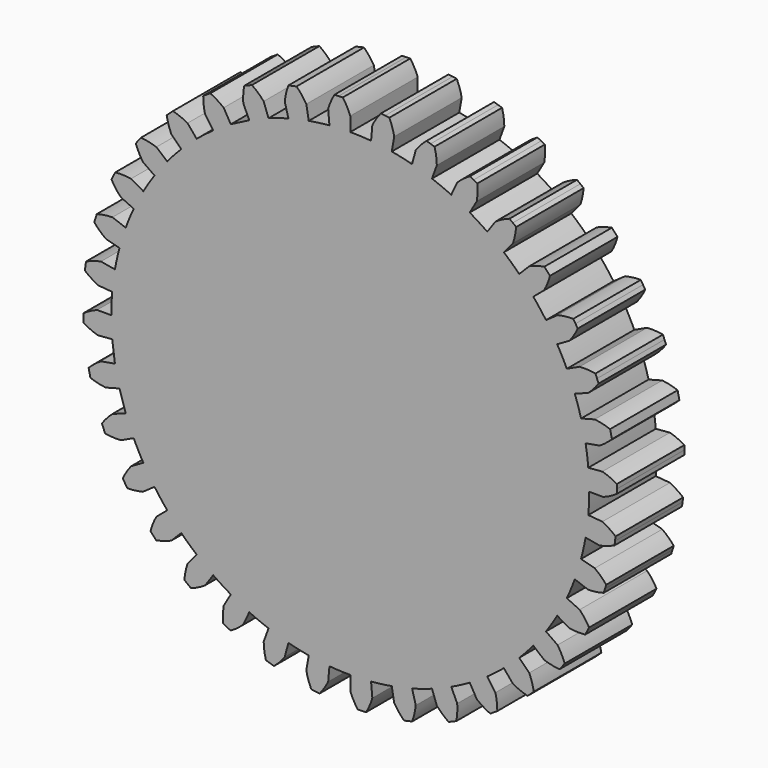
from build123d import *

# Parameters (mm, degrees)
F2_DEPTH = 6.35


with BuildPart() as f2:
    # F0 (on Front) → F2 (new body)
    with BuildSketch(Plane.XZ):
        with BuildLine():
            Line((1.660317, 18.977509), (1.567339, 17.914768))
            ThreePointArc((1.567339, 17.914768), (0.784416, 17.966084), (0, 17.9832))
            Line((0, 17.9832), (0, 19.05))
            ThreePointArc((0, 19.05), (-0.247841, 19.590705), (-0.5612, 20.096266))
            Line((-0.5612, 20.096266), (-0.87682, 20.082485))
            Line((-0.87682, 20.082485), (-1.19244, 20.068705))
            ThreePointArc((-1.19244, 20.068705), (-1.460545, 19.537757), (-1.660317, 18.977509))
            Line((-1.660317, 18.977509), (-1.567339, 17.914768))
            ThreePointArc((-1.567339, 17.914768), (-2.347279, 17.829351), (-3.12275, 17.709995))
            Line((-3.12275, 17.709995), (-3.307998, 18.760588))
            ThreePointArc((-3.307998, 18.760588), (-3.645965, 19.250041), (-4.042354, 19.693507))
            Line((-4.042354, 19.693507), (-4.350786, 19.625129))
            Line((-4.350786, 19.625129), (-4.659218, 19.556751))
            ThreePointArc((-4.659218, 19.556751), (-4.831052, 18.987313), (-4.930503, 18.400887))
            Line((-4.930503, 18.400887), (-4.654395, 17.370437))
            ThreePointArc((-4.654395, 17.370437), (-5.407653, 17.150883), (-6.150617, 16.89868))
            Line((-6.150617, 16.89868), (-6.515484, 17.901144))
            ThreePointArc((-6.515484, 17.901144), (-6.933309, 18.324474), (-7.400683, 18.692371))
            Line((-7.400683, 18.692371), (-7.692556, 18.571473))
            Line((-7.692556, 18.571473), (-7.984429, 18.450576))
            ThreePointArc((-7.984429, 18.450576), (-8.05477, 17.85995), (-8.050878, 17.265163))
            Line((-8.050878, 17.265163), (-7.600029, 16.298314))
            Line((-7.600029, 16.298314), (-8.9916, 15.573908))
            Line((-8.9916, 15.573908), (-9.525, 16.497784))
            ThreePointArc((-9.525, 16.497784), (-10.009988, 16.842128), (-10.534147, 17.123276))
            Line((-10.534147, 17.123276), (-10.800591, 16.953532))
            Line((-10.800591, 16.953532), (-11.067036, 16.783788))
            ThreePointArc((-11.067036, 16.783788), (-11.033747, 16.189921), (-10.926631, 15.604846))
            Line((-10.926631, 15.604846), (-10.31474, 14.730975))
            ThreePointArc((-10.31474, 14.730975), (-10.947479, 14.267032), (-11.559378, 13.77593))
            Line((-11.559378, 13.77593), (-12.245104, 14.593147))
            ThreePointArc((-12.245104, 14.593147), (-12.782519, 14.848042), (-13.347535, 15.0339))
            Line((-13.347535, 15.0339), (-13.580456, 14.820467))
            Line((-13.580456, 14.820467), (-13.813377, 14.607034))
            ThreePointArc((-13.813377, 14.607034), (-13.67747, 14.02797), (-13.470384, 13.470384))
            Line((-13.470384, 13.470384), (-12.716043, 12.716043))
            ThreePointArc((-12.716043, 12.716043), (-13.258606, 12.149274), (-13.77593, 11.559378))
            Line((-13.77593, 11.559378), (-14.593147, 12.245104))
            ThreePointArc((-14.593147, 12.245104), (-15.166659, 12.402805), (-15.755365, 12.487726))
            Line((-15.755365, 12.487726), (-15.947685, 12.237089))
            Line((-15.947685, 12.237089), (-16.140006, 11.986453))
            ThreePointArc((-16.140006, 11.986453), (-15.90561, 11.439786), (-15.604846, 10.926631))
            Line((-15.604846, 10.926631), (-14.730975, 10.31474))
            ThreePointArc((-14.730975, 10.31474), (-15.166877, 9.662366), (-15.573908, 8.9916))
            Line((-15.573908, 8.9916), (-16.497784, 9.525))
            ThreePointArc((-16.497784, 9.525), (-17.089968, 9.580716), (-17.684477, 9.562119))
            Line((-17.684477, 9.562119), (-17.830353, 9.281894))
            Line((-17.830353, 9.281894), (-17.976228, 9.001669))
            ThreePointArc((-17.976228, 9.001669), (-17.650466, 8.504009), (-17.265163, 8.050878))
            Line((-17.265163, 8.050878), (-16.298314, 7.600029))
            ThreePointArc((-16.298314, 7.600029), (-16.61431, 6.881873), (-16.89868, 6.150617))
            Line((-16.89868, 6.150617), (-17.901144, 6.515484))
            ThreePointArc((-17.901144, 6.515484), (-18.494007, 6.467522), (-19.076254, 6.345972))
            Line((-19.076254, 6.345972), (-19.171253, 6.044673))
            Line((-19.171253, 6.044673), (-19.266253, 5.743374))
            ThreePointArc((-19.266253, 5.743374), (-18.859022, 5.309843), (-18.400887, 4.930503))
            Line((-18.400887, 4.930503), (-17.370437, 4.654395))
            ThreePointArc((-17.370437, 4.654395), (-17.556926, 3.892277), (-17.709995, 3.12275))
            Line((-17.709995, 3.12275), (-18.760588, 3.307998))
            ThreePointArc((-18.760588, 3.307998), (-19.336115, 3.157815), (-19.88841, 2.937005))
            Line((-19.88841, 2.937005), (-19.929645, 2.623788))
            Line((-19.929645, 2.623788), (-19.970881, 2.31057))
            ThreePointArc((-19.970881, 2.31057), (-19.494555, 1.95434), (-18.977509, 1.660317))
            Line((-18.977509, 1.660317), (-17.914768, 1.567339))
            ThreePointArc((-17.914768, 1.567339), (-17.966084, 0.784416), (-17.9832, 0))
            Line((-17.9832, 0), (-19.05, 0))
            ThreePointArc((-19.05, 0), (-19.590705, -0.247841), (-20.096266, -0.5612))
            Line((-20.096266, -0.5612), (-20.082485, -0.87682))
            Line((-20.082485, -0.87682), (-20.068705, -1.19244))
            ThreePointArc((-20.068705, -1.19244), (-19.537757, -1.460545), (-18.977509, -1.660317))
            Line((-18.977509, -1.660317), (-17.914768, -1.567339))
            Line((-17.914768, -1.567339), (-17.709995, -3.12275))
            Line((-17.709995, -3.12275), (-18.760588, -3.307998))
            ThreePointArc((-18.760588, -3.307998), (-19.250041, -3.645965), (-19.693507, -4.042354))
            Line((-19.693507, -4.042354), (-19.625129, -4.350786))
            Line((-19.625129, -4.350786), (-19.556751, -4.659218))
            ThreePointArc((-19.556751, -4.659218), (-18.987313, -4.831052), (-18.400887, -4.930503))
            Line((-18.400887, -4.930503), (-17.370437, -4.654395))
            Line((-17.370437, -4.654395), (-16.89868, -6.150617))
            Line((-16.89868, -6.150617), (-17.901144, -6.515484))
            ThreePointArc((-17.901144, -6.515484), (-18.324474, -6.933309), (-18.692371, -7.400683))
            Line((-18.692371, -7.400683), (-18.571473, -7.692556))
            Line((-18.571473, -7.692556), (-18.450576, -7.984429))
            ThreePointArc((-18.450576, -7.984429), (-17.85995, -8.05477), (-17.265163, -8.050878))
            Line((-17.265163, -8.050878), (-16.298314, -7.600029))
            ThreePointArc((-16.298314, -7.600029), (-15.951293, -8.303718), (-15.573908, -8.9916))
            Line((-15.573908, -8.9916), (-16.497784, -9.525))
            ThreePointArc((-16.497784, -9.525), (-16.842128, -10.009988), (-17.123276, -10.534147))
            Line((-17.123276, -10.534147), (-16.953532, -10.800591))
            Line((-16.953532, -10.800591), (-16.783788, -11.067036))
            ThreePointArc((-16.783788, -11.067036), (-16.189921, -11.033747), (-15.604846, -10.926631))
            Line((-15.604846, -10.926631), (-14.730975, -10.31474))
            ThreePointArc((-14.730975, -10.31474), (-14.267032, -10.947479), (-13.77593, -11.559378))
            Line((-13.77593, -11.559378), (-14.593147, -12.245104))
            ThreePointArc((-14.593147, -12.245104), (-14.848042, -12.782519), (-15.0339, -13.347535))
            Line((-15.0339, -13.347535), (-14.820467, -13.580456))
            Line((-14.820467, -13.580456), (-14.607034, -13.813377))
            ThreePointArc((-14.607034, -13.813377), (-14.02797, -13.67747), (-13.470384, -13.470384))
            Line((-13.470384, -13.470384), (-12.716043, -12.716043))
            ThreePointArc((-12.716043, -12.716043), (-12.149274, -13.258606), (-11.559378, -13.77593))
            Line((-11.559378, -13.77593), (-12.245104, -14.593147))
            ThreePointArc((-12.245104, -14.593147), (-12.402805, -15.166659), (-12.487726, -15.755365))
            Line((-12.487726, -15.755365), (-12.237089, -15.947685))
            Line((-12.237089, -15.947685), (-11.986453, -16.140006))
            ThreePointArc((-11.986453, -16.140006), (-11.439786, -15.90561), (-10.926631, -15.604846))
            Line((-10.926631, -15.604846), (-10.31474, -14.730975))
            ThreePointArc((-10.31474, -14.730975), (-9.662366, -15.166877), (-8.9916, -15.573908))
            Line((-8.9916, -15.573908), (-9.525, -16.497784))
            ThreePointArc((-9.525, -16.497784), (-9.580716, -17.089968), (-9.562119, -17.684477))
            Line((-9.562119, -17.684477), (-9.281894, -17.830353))
            Line((-9.281894, -17.830353), (-9.001669, -17.976228))
            ThreePointArc((-9.001669, -17.976228), (-8.504009, -17.650466), (-8.050878, -17.265163))
            Line((-8.050878, -17.265163), (-7.600029, -16.298314))
            ThreePointArc((-7.600029, -16.298314), (-6.881873, -16.61431), (-6.150617, -16.89868))
            Line((-6.150617, -16.89868), (-6.515484, -17.901144))
            ThreePointArc((-6.515484, -17.901144), (-6.467522, -18.494007), (-6.345972, -19.076254))
            Line((-6.345972, -19.076254), (-6.044673, -19.171253))
            Line((-6.044673, -19.171253), (-5.743374, -19.266253))
            ThreePointArc((-5.743374, -19.266253), (-5.309843, -18.859022), (-4.930503, -18.400887))
            Line((-4.930503, -18.400887), (-4.654395, -17.370437))
            ThreePointArc((-4.654395, -17.370437), (-3.892277, -17.556926), (-3.12275, -17.709995))
            Line((-3.12275, -17.709995), (-3.307998, -18.760588))
            ThreePointArc((-3.307998, -18.760588), (-3.157815, -19.336115), (-2.937005, -19.88841))
            Line((-2.937005, -19.88841), (-2.623788, -19.929645))
            Line((-2.623788, -19.929645), (-2.31057, -19.970881))
            ThreePointArc((-2.31057, -19.970881), (-1.95434, -19.494555), (-1.660317, -18.977509))
            Line((-1.660317, -18.977509), (-1.567339, -17.914768))
            ThreePointArc((-1.567339, -17.914768), (-0.784416, -17.966084), (0, -17.9832))
            Line((0, -17.9832), (0, -19.05))
            ThreePointArc((0, -19.05), (0.247841, -19.590705), (0.5612, -20.096266))
            Line((0.5612, -20.096266), (0.87682, -20.082485))
            Line((0.87682, -20.082485), (1.19244, -20.068705))
            ThreePointArc((1.19244, -20.068705), (1.460545, -19.537757), (1.660317, -18.977509))
            Line((1.660317, -18.977509), (1.567339, -17.914768))
            ThreePointArc((1.567339, -17.914768), (2.347279, -17.829351), (3.12275, -17.709995))
            Line((3.12275, -17.709995), (3.307998, -18.760588))
            ThreePointArc((3.307998, -18.760588), (3.645965, -19.250041), (4.042354, -19.693507))
            Line((4.042354, -19.693507), (4.350786, -19.625129))
            Line((4.350786, -19.625129), (4.659218, -19.556751))
            ThreePointArc((4.659218, -19.556751), (4.831052, -18.987313), (4.930503, -18.400887))
            Line((4.930503, -18.400887), (4.654395, -17.370437))
            ThreePointArc((4.654395, -17.370437), (5.407653, -17.150883), (6.150617, -16.89868))
            Line((6.150617, -16.89868), (6.515484, -17.901144))
            ThreePointArc((6.515484, -17.901144), (6.933309, -18.324474), (7.400683, -18.692371))
            Line((7.400683, -18.692371), (7.692556, -18.571473))
            Line((7.692556, -18.571473), (7.984429, -18.450576))
            ThreePointArc((7.984429, -18.450576), (8.05477, -17.85995), (8.050878, -17.265163))
            Line((8.050878, -17.265163), (7.600029, -16.298314))
            ThreePointArc((7.600029, -16.298314), (8.303718, -15.951293), (8.9916, -15.573908))
            Line((8.9916, -15.573908), (9.525, -16.497784))
            ThreePointArc((9.525, -16.497784), (10.009988, -16.842128), (10.534147, -17.123276))
            Line((10.534147, -17.123276), (10.800591, -16.953532))
            Line((10.800591, -16.953532), (11.067036, -16.783788))
            ThreePointArc((11.067036, -16.783788), (11.033747, -16.189921), (10.926631, -15.604846))
            Line((10.926631, -15.604846), (10.31474, -14.730975))
            ThreePointArc((10.31474, -14.730975), (10.947479, -14.267032), (11.559378, -13.77593))
            Line((11.559378, -13.77593), (12.245104, -14.593147))
            ThreePointArc((12.245104, -14.593147), (12.782519, -14.848042), (13.347535, -15.0339))
            Line((13.347535, -15.0339), (13.580456, -14.820467))
            Line((13.580456, -14.820467), (13.813377, -14.607034))
            ThreePointArc((13.813377, -14.607034), (13.67747, -14.02797), (13.470384, -13.470384))
            Line((13.470384, -13.470384), (12.716043, -12.716043))
            ThreePointArc((12.716043, -12.716043), (13.258606, -12.149274), (13.77593, -11.559378))
            Line((13.77593, -11.559378), (14.593147, -12.245104))
            ThreePointArc((14.593147, -12.245104), (15.166659, -12.402805), (15.755365, -12.487726))
            Line((15.755365, -12.487726), (15.947685, -12.237089))
            Line((15.947685, -12.237089), (16.140006, -11.986453))
            ThreePointArc((16.140006, -11.986453), (15.90561, -11.439786), (15.604846, -10.926631))
            Line((15.604846, -10.926631), (14.730975, -10.31474))
            ThreePointArc((14.730975, -10.31474), (15.166877, -9.662366), (15.573908, -8.9916))
            Line((15.573908, -8.9916), (16.497784, -9.525))
            ThreePointArc((16.497784, -9.525), (17.089968, -9.580716), (17.684477, -9.562119))
            Line((17.684477, -9.562119), (17.830353, -9.281894))
            Line((17.830353, -9.281894), (17.976228, -9.001669))
            ThreePointArc((17.976228, -9.001669), (17.650466, -8.504009), (17.265163, -8.050878))
            Line((17.265163, -8.050878), (16.298314, -7.600029))
            ThreePointArc((16.298314, -7.600029), (16.61431, -6.881873), (16.89868, -6.150617))
            Line((16.89868, -6.150617), (17.901144, -6.515484))
            ThreePointArc((17.901144, -6.515484), (18.494007, -6.467522), (19.076254, -6.345972))
            Line((19.076254, -6.345972), (19.171253, -6.044673))
            Line((19.171253, -6.044673), (19.266253, -5.743374))
            ThreePointArc((19.266253, -5.743374), (18.859022, -5.309843), (18.400887, -4.930503))
            Line((18.400887, -4.930503), (17.370437, -4.654395))
            ThreePointArc((17.370437, -4.654395), (17.556926, -3.892277), (17.709995, -3.12275))
            Line((17.709995, -3.12275), (18.760588, -3.307998))
            ThreePointArc((18.760588, -3.307998), (19.336115, -3.157815), (19.88841, -2.937005))
            Line((19.88841, -2.937005), (19.929645, -2.623788))
            Line((19.929645, -2.623788), (19.970881, -2.31057))
            ThreePointArc((19.970881, -2.31057), (19.494555, -1.95434), (18.977509, -1.660317))
            Line((18.977509, -1.660317), (17.914768, -1.567339))
            ThreePointArc((17.914768, -1.567339), (17.966084, -0.784416), (17.9832, 0))
            Line((17.9832, 0), (19.05, 0))
            ThreePointArc((19.05, 0), (19.590705, 0.247841), (20.096266, 0.5612))
            Line((20.096266, 0.5612), (20.082485, 0.87682))
            Line((20.082485, 0.87682), (20.068705, 1.19244))
            ThreePointArc((20.068705, 1.19244), (19.537757, 1.460545), (18.977509, 1.660317))
            Line((18.977509, 1.660317), (17.914768, 1.567339))
            ThreePointArc((17.914768, 1.567339), (17.829351, 2.347279), (17.709995, 3.12275))
            Line((17.709995, 3.12275), (18.760588, 3.307998))
            ThreePointArc((18.760588, 3.307998), (19.250041, 3.645965), (19.693507, 4.042354))
            Line((19.693507, 4.042354), (19.625129, 4.350786))
            Line((19.625129, 4.350786), (19.556751, 4.659218))
            ThreePointArc((19.556751, 4.659218), (18.987313, 4.831052), (18.400887, 4.930503))
            Line((18.400887, 4.930503), (17.370437, 4.654395))
            ThreePointArc((17.370437, 4.654395), (17.150883, 5.407653), (16.89868, 6.150617))
            Line((16.89868, 6.150617), (17.901144, 6.515484))
            ThreePointArc((17.901144, 6.515484), (18.324474, 6.933309), (18.692371, 7.400683))
            Line((18.692371, 7.400683), (18.571473, 7.692556))
            Line((18.571473, 7.692556), (18.450576, 7.984429))
            ThreePointArc((18.450576, 7.984429), (17.85995, 8.05477), (17.265163, 8.050878))
            Line((17.265163, 8.050878), (16.298314, 7.600029))
            ThreePointArc((16.298314, 7.600029), (15.951293, 8.303718), (15.573908, 8.9916))
            Line((15.573908, 8.9916), (16.497784, 9.525))
            ThreePointArc((16.497784, 9.525), (16.842128, 10.009988), (17.123276, 10.534147))
            Line((17.123276, 10.534147), (16.953532, 10.800591))
            Line((16.953532, 10.800591), (16.783788, 11.067036))
            ThreePointArc((16.783788, 11.067036), (16.189921, 11.033747), (15.604846, 10.926631))
            Line((15.604846, 10.926631), (14.730975, 10.31474))
            ThreePointArc((14.730975, 10.31474), (14.267032, 10.947479), (13.77593, 11.559378))
            Line((13.77593, 11.559378), (14.593147, 12.245104))
            ThreePointArc((14.593147, 12.245104), (14.848042, 12.782519), (15.0339, 13.347535))
            Line((15.0339, 13.347535), (14.820467, 13.580456))
            Line((14.820467, 13.580456), (14.607034, 13.813377))
            ThreePointArc((14.607034, 13.813377), (14.02797, 13.67747), (13.470384, 13.470384))
            Line((13.470384, 13.470384), (12.716043, 12.716043))
            ThreePointArc((12.716043, 12.716043), (12.149274, 13.258606), (11.559378, 13.77593))
            Line((11.559378, 13.77593), (12.245104, 14.593147))
            ThreePointArc((12.245104, 14.593147), (12.402805, 15.166659), (12.487726, 15.755365))
            Line((12.487726, 15.755365), (12.237089, 15.947685))
            Line((12.237089, 15.947685), (11.986453, 16.140006))
            ThreePointArc((11.986453, 16.140006), (11.439786, 15.90561), (10.926631, 15.604846))
            Line((10.926631, 15.604846), (10.31474, 14.730975))
            ThreePointArc((10.31474, 14.730975), (9.662366, 15.166877), (8.9916, 15.573908))
            Line((8.9916, 15.573908), (9.525, 16.497784))
            ThreePointArc((9.525, 16.497784), (9.580716, 17.089968), (9.562119, 17.684477))
            Line((9.562119, 17.684477), (9.281894, 17.830353))
            Line((9.281894, 17.830353), (9.001669, 17.976228))
            ThreePointArc((9.001669, 17.976228), (8.504009, 17.650466), (8.050878, 17.265163))
            Line((8.050878, 17.265163), (7.600029, 16.298314))
            ThreePointArc((7.600029, 16.298314), (6.881873, 16.61431), (6.150617, 16.89868))
            Line((6.150617, 16.89868), (6.515484, 17.901144))
            ThreePointArc((6.515484, 17.901144), (6.467522, 18.494007), (6.345972, 19.076254))
            Line((6.345972, 19.076254), (6.044673, 19.171253))
            Line((6.044673, 19.171253), (5.743374, 19.266253))
            ThreePointArc((5.743374, 19.266253), (5.309843, 18.859022), (4.930503, 18.400887))
            Line((4.930503, 18.400887), (4.654395, 17.370437))
            ThreePointArc((4.654395, 17.370437), (4.564287, 17.394331), (4.474058, 17.417758))
            ThreePointArc((4.474058, 17.417758), (3.801213, 17.576867), (3.12275, 17.709995))
            Line((3.12275, 17.709995), (3.307998, 18.760588))
            ThreePointArc((3.307998, 18.760588), (3.157815, 19.336115), (2.937005, 19.88841))
            Line((2.937005, 19.88841), (2.623788, 19.929645))
            Line((2.623788, 19.929645), (2.31057, 19.970881))
            ThreePointArc((2.31057, 19.970881), (1.95434, 19.494555), (1.660317, 18.977509))
        make_face()
    extrude(amount=F2_DEPTH)


solid = f2.part
